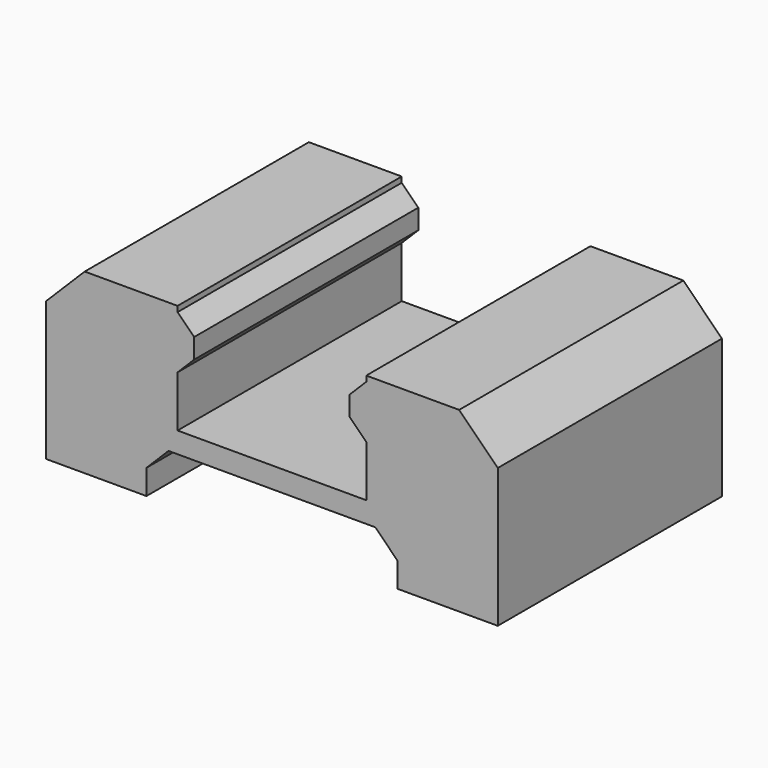
from build123d import *

# Parameters (mm, degrees)
F1_DEPTH = 25.4


with BuildPart() as f1:
    # F0 (on Front) → F1 (new body)
    with BuildSketch(Plane.XZ):
        Polygon((11.372893, 2.256139), (11.372893, 0), (20.472373, 0), (20.472373, 12.596615), (16.972373, 16.096615), (8.551624, 16.096615), (8.551624, 15.596615), (7.051624, 14.096615), (7.051624, 12.293248), (8.551624, 10.793248), (8.551624, 6.148535), (-8.551624, 6.148535), (-8.551624, 10.793248), (-7.051624, 12.293248), (-7.051624, 14.096615), (-8.551624, 15.596615), (-8.551624, 16.096615), (-16.972373, 16.096615), (-20.472373, 12.596615), (-20.472373, 0), (-11.372893, 0), (-11.372893, 2.256139), (-9.372893, 4.256139), (9.372893, 4.256139), align=None)
    extrude(amount=F1_DEPTH)


solid = f1.part
